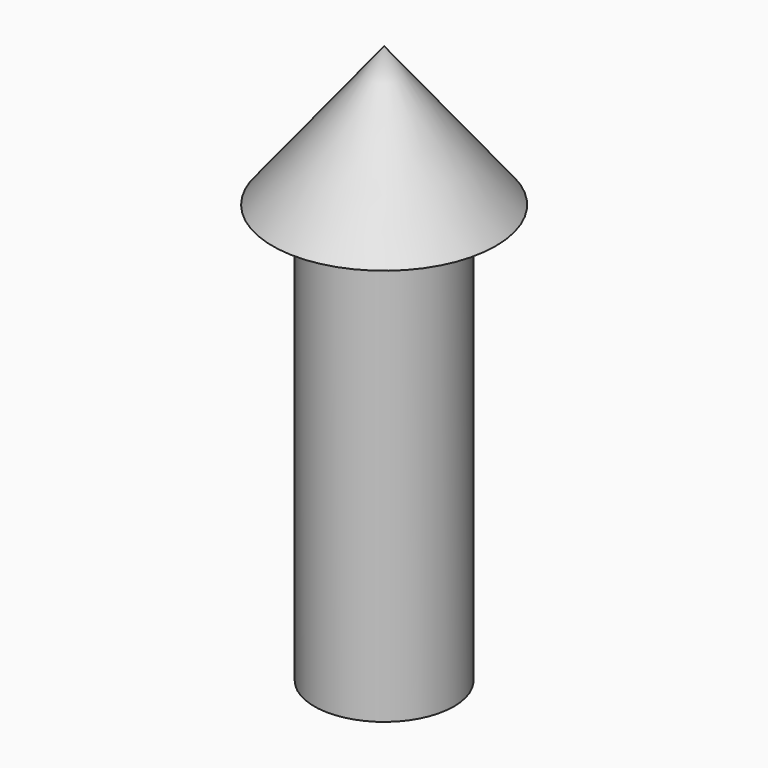
from build123d import *

# Parameters (mm, degrees)
F0_R     = 250
F1_DEPTH = 1500


with BuildPart() as f1:
    # F0 (on Top) → F1 (new body)
    with BuildSketch(Plane.XY):
        Circle(F0_R)
    extrude(amount=F1_DEPTH)

    # F2 (on Front) → F3 (revolve)
    with BuildSketch(Plane.XZ):
        Polygon((0, 2000), (0, 1500), (400, 1500), align=None)
    revolve(axis=Axis((0, 0, 1750), (0, 0, 1)))


solid = f1.part
